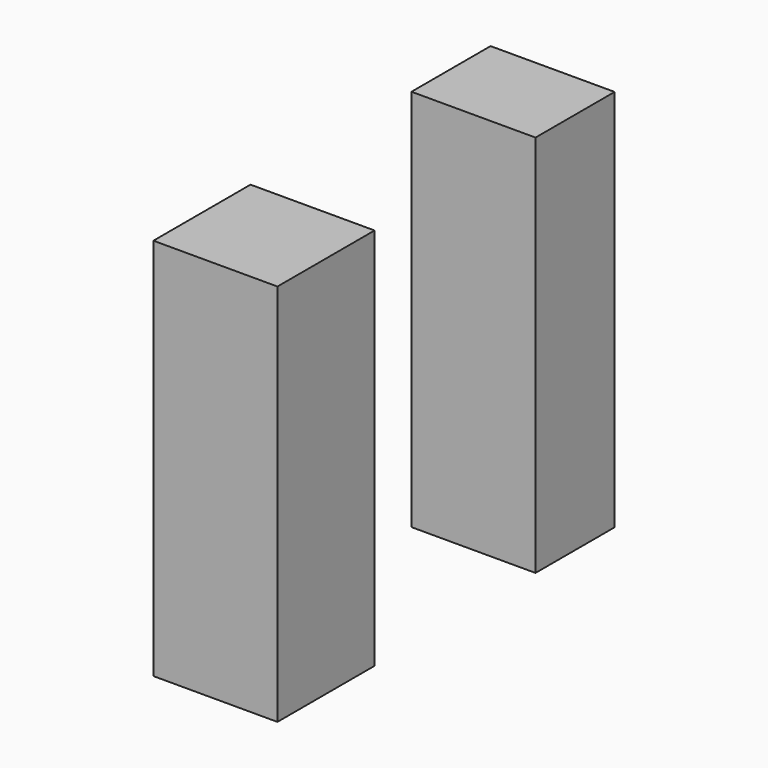
from build123d import *

# Parameters (mm, degrees)
F0_W     = 24.858734
F0_H     = 78.482572
F0_W_2   = 20.242112
F1_DEPTH = 25.4


with BuildPart() as f1:
    # F0 (on Right) → F1 (new body)
    with BuildSketch(Plane.YZ):
        with Locations((-33.026603, 17.75624)):
            Rectangle(F0_W, F0_H)
        with Locations((30.718292, 17.75624)):
            Rectangle(F0_W_2, F0_H)
    extrude(amount=F1_DEPTH)


solid = f1.part
